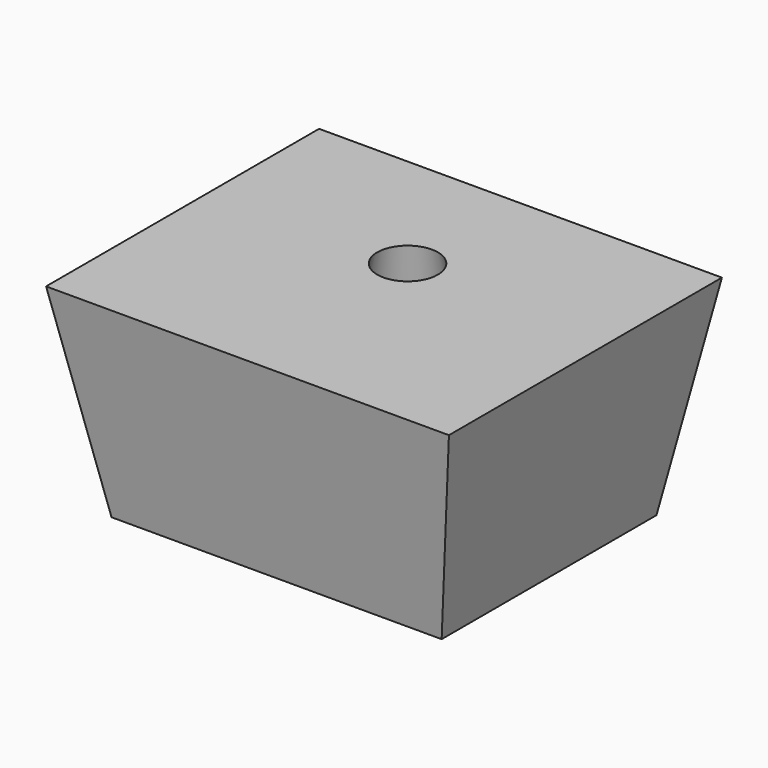
from build123d import *

# Parameters (mm, degrees)
F0_W     = 156.1322550866
F0_H     = 127
F0_R     = 31.5225821841
F1_DEPTH = 97.536
F1_TAPER = -10


with BuildPart() as f1:
    # F0 (on Top) → F1 (new body)
    with BuildSketch(Plane.XY):
        with Locations((10.4764318094, 1.6675908118)):
            Rectangle(F0_W, F0_H)
        with Locations((8.0287339798, 18.6563748297)):
            Circle(F0_R, mode=Mode.SUBTRACT)
    extrude(amount=F1_DEPTH, taper=F1_TAPER)


solid = f1.part
